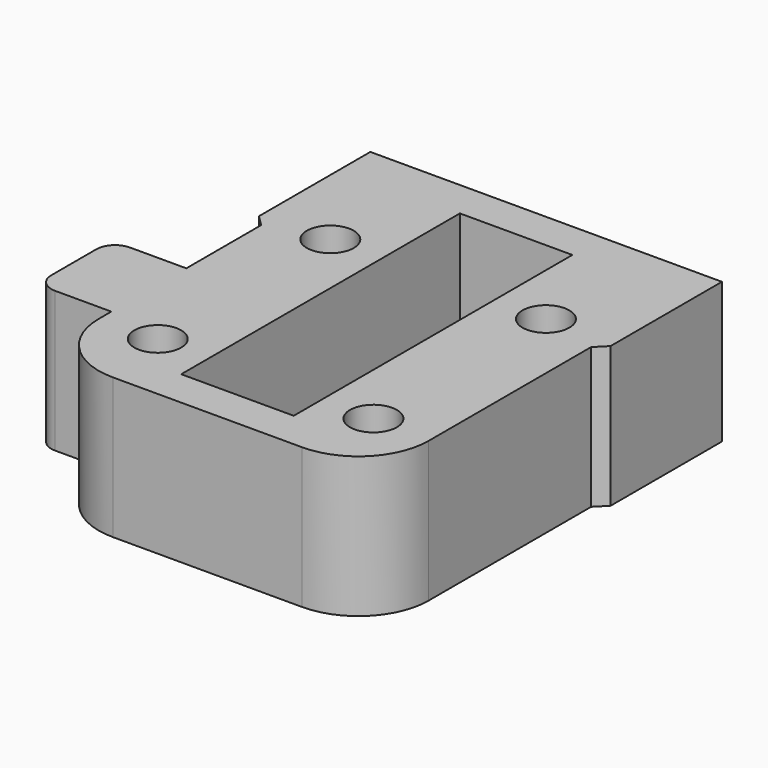
from build123d import *

# Parameters (mm, degrees)
F0_R     = 2.499999
F0_W     = 12
F0_H     = 37.150002
F1_DEPTH = 15
F2_W     = 10
F2_H     = 15
F3_DEPTH = 8
F4_R     = 2


with BuildPart() as f1:
    # F0 (on Top) → F1 (new body)
    with BuildSketch(Plane.XY):
        with BuildLine():
            Line((46.450001, 45.150002), (8.95, 45.150002))
            Line((8.95, 45.150002), (8.95, 30.300001))
            Line((8.95, 30.300001), (10.099999, 29.150002))
            Line((10.099999, 29.150002), (10.099999, 7.5))
            ThreePointArc((10.099999, 7.5), (12.296699, 2.196699), (17.599999, 0))
            Line((17.599999, 0), (37.799999, 0))
            ThreePointArc((37.799999, 0), (43.1033, 2.196699), (45.299999, 7.5))
            Line((45.299999, 7.5), (45.299999, 29.150002))
            Line((45.299999, 29.150002), (46.450001, 30.300001))
            Line((46.450001, 30.300001), (46.450001, 45.150002))
        make_face()
        with Locations((16.199999, 7.749999)):
            Circle(F0_R, mode=Mode.SUBTRACT)
        with Locations((39.199598, 7.749999)):
            Circle(F0_R, mode=Mode.SUBTRACT)
        with Locations((16.199999, 30.749999)):
            Circle(F0_R, mode=Mode.SUBTRACT)
        with Locations((27.700001, 22.575001)):
            Rectangle(F0_W, F0_H, mode=Mode.SUBTRACT)
        with Locations((39.199598, 30.749999)):
            Circle(F0_R, mode=Mode.SUBTRACT)
    extrude(amount=F1_DEPTH)

    # F2 (on face) → F3 (join)
    with BuildSketch(Plane(origin=(10.099999, 0, 0), x_dir=(0, -1, 0), z_dir=(-1, 0, 0))):
        with Locations((-14.181, 7.5)):
            Rectangle(F2_W, F2_H)
    extrude(amount=F3_DEPTH)

    # F4
    f4_edges = [f1.edges().sort_by_distance(p)[0] for p in [
        (2.099999, 19.181, 7.5),
        (2.099999, 9.181, 7.5),
    ]]
    fillet(f4_edges, radius=F4_R)


solid = f1.part
